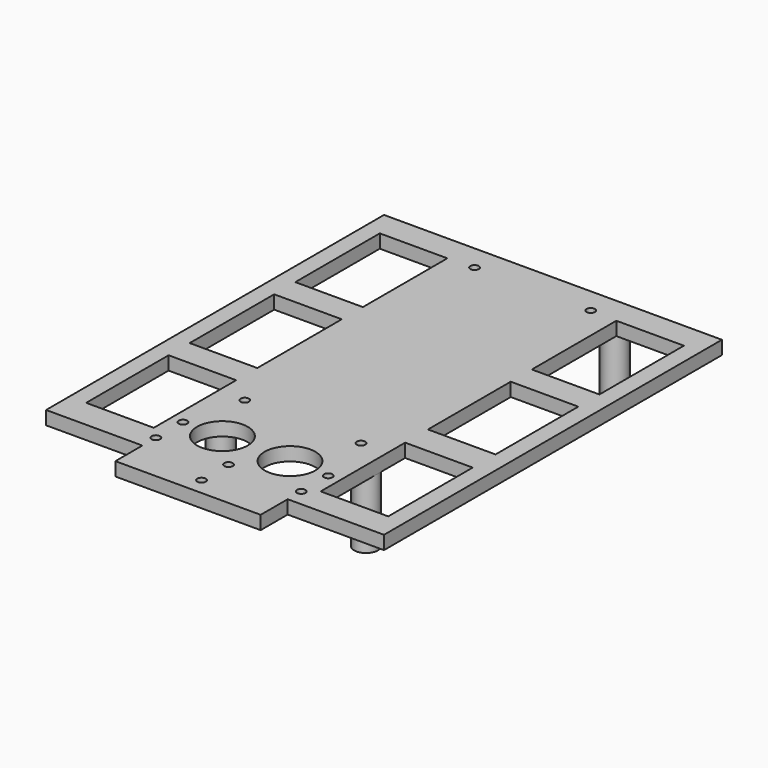
from build123d import *

# Parameters (mm, degrees)
F4_R            = 3.5
F5_DEPTH        = 4
F6_D            = 2.5
F6_CBORE_D      = 4.5
F6_CBORE_DEPTH  = 2
F7_DEPTH        = 20
F9_D            = 2.9
F9_DEPTH        = 18
F9_CSINK_D      = 4
F9_CSINK_ANGLE  = 90
F9_TIP          = 0.8712478976
F11_D           = 2.9
F11_DEPTH       = 18
F11_CSINK_D     = 4
F11_CSINK_ANGLE = 90
F11_TIP         = 0.8712478976
F13_D           = 2.9
F13_DEPTH       = 18
F13_CSINK_D     = 4
F13_CSINK_ANGLE = 90
F13_TIP         = 0.8712478976
F15_D           = 2.9
F15_DEPTH       = 18
F15_CSINK_D     = 4
F15_CSINK_ANGLE = 90
F15_TIP         = 0.8712478976
F16_DEPTH       = 25
F18_DEPTH       = 25
F19_DEPTH       = 25
F20_W           = 20
F20_H           = 30.4843550548
F20_H_2         = 31.25
F20_H_3         = 30.620081059
F21_DEPTH       = 4
F17_R           = 7.5
F22_DEPTH       = 4
F23_W           = 43
F23_H           = 4
F24_DEPTH       = 10
F26_D           = 2.5
F26_DEPTH       = 15
F26_CSINK_D     = 4
F26_CSINK_ANGLE = 90
F26_TIP         = 0.7510757738
F27_D           = 2.5
F27_DEPTH       = 15
F27_CSINK_D     = 4
F27_CSINK_ANGLE = 90
F27_TIP         = 0.7510757738


with BuildPart() as f5:
    # F4 (on Top) → F5 (new body)
    with BuildSketch(Plane.XY):
        Polygon((27.5709562153, 77.495081059), (-22.4290437847, 77.495081059), (-22.4290437847, 73.495081059), (-22.4290437847, -18.5049188996), (-22.4290437847, -22.504918941), (27.5709562153, -22.504918941), (27.5709562153, -18.504918941), (27.5709562153, 73.495081059), align=None)
        with BuildLine():
            ThreePointArc((-15.4290437847, -18.504918941), (-18.9290438054, -22.004918941), (-22.4290437847, -18.5049188996))
            ThreePointArc((-22.4290437847, -18.5049188996), (-18.9290437641, -15.004918941), (-15.4290437847, -18.504918941))
        make_face(mode=Mode.SUBTRACT)
        with Locations((24.0709562153, -18.504918941)):
            Circle(F4_R, mode=Mode.SUBTRACT)
        with BuildLine():
            ThreePointArc((-15.4290437847, 73.495081059), (-18.9290437847, 69.995081059), (-22.4290437847, 73.495081059))
            ThreePointArc((-22.4290437847, 73.495081059), (-18.9290437847, 76.995081059), (-15.4290437847, 73.495081059))
        make_face(mode=Mode.SUBTRACT)
        with Locations((24.0709562153, 73.495081059)):
            Circle(F4_R, mode=Mode.SUBTRACT)
        with BuildLine():
            ThreePointArc((-15.4290437847, -18.504918941), (-18.9290437641, -15.004918941), (-22.4290437847, -18.5049188996))
            ThreePointArc((-22.4290437847, -18.5049188996), (-18.9290438054, -22.004918941), (-15.4290437847, -18.504918941))
        make_face()
        with Locations((24.0709562153, -18.504918941)):
            Circle(F4_R)
        with BuildLine():
            ThreePointArc((-15.4290437847, 73.495081059), (-18.9290437847, 76.995081059), (-22.4290437847, 73.495081059))
            ThreePointArc((-22.4290437847, 73.495081059), (-18.9290437847, 69.995081059), (-15.4290437847, 73.495081059))
        make_face()
        with Locations((24.0709562153, 73.495081059)):
            Circle(F4_R)
    extrude(amount=F5_DEPTH)

    # F6 (through all)
    with Locations(Plane(origin=(0, 0, 0), x_dir=(1, 0, 0), z_dir=(0, 0, -1))):
        with Locations((19.7709562153, -69.995081059), (19.7709562153, 15.004918941), (-14.6290437847, 15.004918941), (-14.6290437847, -69.995081059)):
            CounterBoreHole(F6_D / 2, F6_CBORE_D / 2, F6_CBORE_DEPTH)

    # F4 (on Top) → F7 (join)
    with BuildSketch(Plane.XY):
        with BuildLine():
            ThreePointArc((-15.4290437847, -18.504918941), (-18.9290437641, -15.004918941), (-22.4290437847, -18.5049188996))
            ThreePointArc((-22.4290437847, -18.5049188996), (-18.9290438054, -22.004918941), (-15.4290437847, -18.504918941))
        make_face()
        with Locations((24.0709562153, -18.504918941)):
            Circle(F4_R)
        with BuildLine():
            ThreePointArc((-15.4290437847, 73.495081059), (-18.9290437847, 76.995081059), (-22.4290437847, 73.495081059))
            ThreePointArc((-22.4290437847, 73.495081059), (-18.9290437847, 69.995081059), (-15.4290437847, 73.495081059))
        make_face()
        with Locations((24.0709562153, 73.495081059)):
            Circle(F4_R)
    extrude(amount=-F7_DEPTH)

    # F9
    with Locations(Plane(origin=(0, 0, -20), x_dir=(1, 0, 0), z_dir=(0, 0, -1))):
        with Locations((-18.9290437847, -73.495081059)):
            CounterSinkHole(F9_D / 2, F9_CSINK_D / 2, depth=F9_DEPTH, counter_sink_angle=F9_CSINK_ANGLE)
            with Locations((0, 0, -(F9_DEPTH + F9_TIP / 2))):  # 118° drill point
                Cone(0, F9_D / 2, F9_TIP, mode=Mode.SUBTRACT)

    # F11
    with Locations(Plane(origin=(0, 0, -20), x_dir=(1, 0, 0), z_dir=(0, 0, -1))):
        with Locations((-18.9290437847, 18.504918941)):
            CounterSinkHole(F11_D / 2, F11_CSINK_D / 2, depth=F11_DEPTH, counter_sink_angle=F11_CSINK_ANGLE)
            with Locations((0, 0, -(F11_DEPTH + F11_TIP / 2))):  # 118° drill point
                Cone(0, F11_D / 2, F11_TIP, mode=Mode.SUBTRACT)

    # F13
    with Locations(Plane(origin=(0, 0, -20), x_dir=(1, 0, 0), z_dir=(0, 0, -1))):
        with Locations((24.0709562153, -73.495081059)):
            CounterSinkHole(F13_D / 2, F13_CSINK_D / 2, depth=F13_DEPTH, counter_sink_angle=F13_CSINK_ANGLE)
            with Locations((0, 0, -(F13_DEPTH + F13_TIP / 2))):  # 118° drill point
                Cone(0, F13_D / 2, F13_TIP, mode=Mode.SUBTRACT)

    # F15
    with Locations(Plane(origin=(0, 0, -20), x_dir=(1, 0, 0), z_dir=(0, 0, -1))):
        with Locations((24.0709562153, 18.504918941)):
            CounterSinkHole(F15_D / 2, F15_CSINK_D / 2, depth=F15_DEPTH, counter_sink_angle=F15_CSINK_ANGLE)
            with Locations((0, 0, -(F15_DEPTH + F15_TIP / 2))):  # 118° drill point
                Cone(0, F15_D / 2, F15_TIP, mode=Mode.SUBTRACT)

    # F16 (add): a face of the model
    f16_faces = [f5.faces().sort_by_distance(p)[0] for p in [
        (2.5709562153, -22.504918941, 2),
    ]]
    extrude(f16_faces, amount=F16_DEPTH)

    # F18 (add): a face of the model
    f18_faces = [f5.faces().sort_by_distance(p)[0] for p in [
        (27.5709562153, 14.995081059, 2),
    ]]
    extrude(f18_faces, amount=F18_DEPTH)

    # F19 (add): a face of the model
    f19_faces = [f5.faces().sort_by_distance(p)[0] for p in [
        (-22.4290437847, 14.995081059, 2),
    ]]
    extrude(f19_faces, amount=F19_DEPTH)

    # F20 (on face) → F21 (cut)
    with BuildSketch(Plane.XY.offset(4)):
        with Locations((-32.4290437847, -23.6845964684)):
            Rectangle(F20_W, F20_H)
        with Locations((-32.4290437847, 14.995081059)):
            Rectangle(F20_W, F20_H_2)
        with Locations((-32.4290437847, 54.057581059)):
            Rectangle(F20_W, F20_H_2)
        with Locations((37.5709562153, 54.057581059)):
            Rectangle(F20_W, F20_H_2)
        with Locations((37.5709562153, 15.3100405295)):
            Rectangle(F20_W, F20_H_3)
        with Locations((37.5709562153, -24.067418941)):
            Rectangle(F20_W, F20_H_2)
    extrude(amount=-F21_DEPTH, mode=Mode.SUBTRACT)

    # F17 (on face) → F22 (cut)
    with BuildSketch(Plane.XY.offset(4)):
        with Locations((-7.4290437847, -32.2756583249)):
            Circle(F17_R)
        with Locations((12.5709562153, -32.2756583249)):
            Circle(F17_R)
    extrude(amount=-F22_DEPTH, mode=Mode.SUBTRACT)

    # F23 (on face) → F24 (join)
    with BuildSketch(Plane.XZ.offset(47.504918941)):
        with Locations((2.5709562153, 2)):
            Rectangle(F23_W, F23_H)
    extrude(amount=F24_DEPTH)

    # F26
    with Locations(Plane(origin=(0, 0, 0), x_dir=(1, 0, 0), z_dir=(0, 0, -1))):
        with Locations((2.5709562153, 52.504918941), (2.5709562153, 42.504918941)):
            CounterSinkHole(F26_D / 2, F26_CSINK_D / 2, depth=F26_DEPTH, counter_sink_angle=F26_CSINK_ANGLE)
            with Locations((0, 0, -(F26_DEPTH + F26_TIP / 2))):  # 118° drill point
                Cone(0, F26_D / 2, F26_TIP, mode=Mode.SUBTRACT)

    # F27
    with Locations(Plane(origin=(0, 0, 0), x_dir=(1, 0, 0), z_dir=(0, 0, -1))):
        with Locations((-18.9290437847, 42.504918941), (-18.9290437847, 32.504918941), (24.0709562153, 32.504918941), (24.0709562153, 42.504918941)):
            CounterSinkHole(F27_D / 2, F27_CSINK_D / 2, depth=F27_DEPTH, counter_sink_angle=F27_CSINK_ANGLE)
            with Locations((0, 0, -(F27_DEPTH + F27_TIP / 2))):  # 118° drill point
                Cone(0, F27_D / 2, F27_TIP, mode=Mode.SUBTRACT)


solid = f5.part
